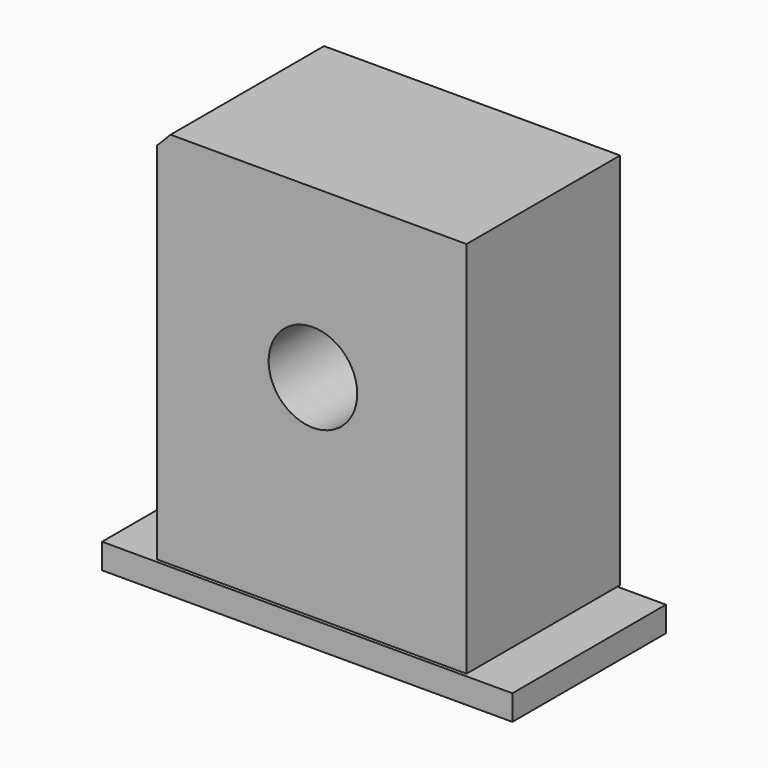
from build123d import *

# Parameters (mm, degrees)
F0_W     = 54.296478
F0_H     = 3.336653
F0_R     = 1.845098
F0_R_2   = 5.860604
F1_DEPTH = 25.4


with BuildPart() as f1:
    # F0 (on Front) → F1 (new body)
    with BuildSketch(Plane.XZ):
        with Locations((-4.129395, -34.672249)):
            Rectangle(F0_W, F0_H)
        Polygon((16.952196, 17.349238), (-22.219523, 17.349238), (-23.997659, 15.528656), (-23.997659, -32.700587), (16.952196, -32.700587), align=None)
        with Locations((-3.674396, -25.723945)):
            Circle(F0_R, mode=Mode.SUBTRACT)
        with Locations((-3.371064, -4.794018)):
            Circle(F0_R_2, mode=Mode.SUBTRACT)
        with Locations((-3.674396, -25.723945)):
            Circle(F0_R)
    extrude(amount=F1_DEPTH)


solid = f1.part
